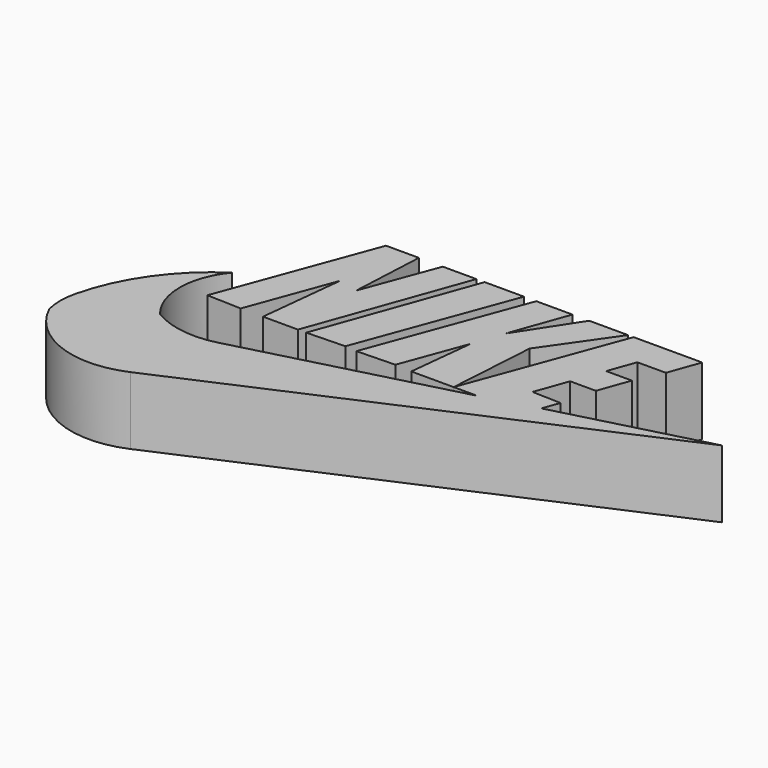
from build123d import *

# Parameters (mm, degrees)
F1_DEPTH = 12.7


with BuildPart() as f1:
    # F0 (on Top) → F1 (new body)
    with BuildSketch(Plane.XY):
        Polygon((-36.811318, 59.873797), (-47.419675, 31.244021), (-40.986497, 31.031001), (-35.107166, 46.964835), (-36.811318, 31.031001), (-30.25033, 31.031001), (-19.854994, 59.873797), (-26.160361, 59.873797), (-31.315424, 46.027552), (-30.633764, 59.873797), align=None)
        Polygon((-18.30266, 59.873797), (-28.697995, 31.031001), (-21.53233, 31.244021), (-10.923973, 59.873797), align=None)
        Polygon((-8.611564, 59.873797), (-19.298851, 31.031001), (-12.144913, 31.244021), (-7.68619, 43.277199), (-8.995943, 31.031001), (-1.042823, 31.031001), (0, 47.527555), (8.597326, 59.873797), (1.306965, 59.873797), (-5.711699, 49.092804), (-1.826083, 59.873797), align=None)
        with BuildLine():
            Line((9.644465, 59.873797), (-1.042823, 31.031001))
            Line((-1.042823, 31.031001), (3.371393, 31.031001))
            Line((3.371393, 31.031001), (-36.811318, 20.485709))
            ThreePointArc((-36.811318, 20.485709), (-43.117787, 20.117368), (-49.077008, 22.213774))
            ThreePointArc((-49.077008, 22.213774), (-52.118253, 30.668571), (-49.077008, 39.123368))
            ThreePointArc((-49.077008, 39.123368), (-57.803954, 30.619416), (-62.798053, 19.504752))
            ThreePointArc((-62.798053, 19.504752), (-63.159107, 16.461354), (-62.798053, 13.417955))
            ThreePointArc((-62.798053, 13.417955), (-53.575863, 4.84212), (-40.986497, 5.160881))
            Line((-40.986497, 5.160881), (41.203033, 41.129593))
            Line((41.203033, 41.129593), (13.209747, 33.783215))
            Line((13.209747, 33.783215), (14.323498, 36.873416))
            Line((14.323498, 36.873416), (8.936947, 37.051779))
            Line((8.936947, 37.051779), (11.127862, 43.130671))
            Line((11.127862, 43.130671), (15.957531, 43.130671))
            Line((15.957531, 43.130671), (18.056719, 48.955058))
            Line((18.056719, 48.955058), (13.227763, 48.955058))
            Line((13.227763, 48.955058), (15.044172, 53.99485))
            Line((15.044172, 53.99485), (20.396435, 53.99485))
            Line((20.396435, 53.99485), (22.515288, 59.873797))
            Line((22.515288, 59.873797), (9.644465, 59.873797))
        make_face()
    extrude(amount=F1_DEPTH)


solid = f1.part
